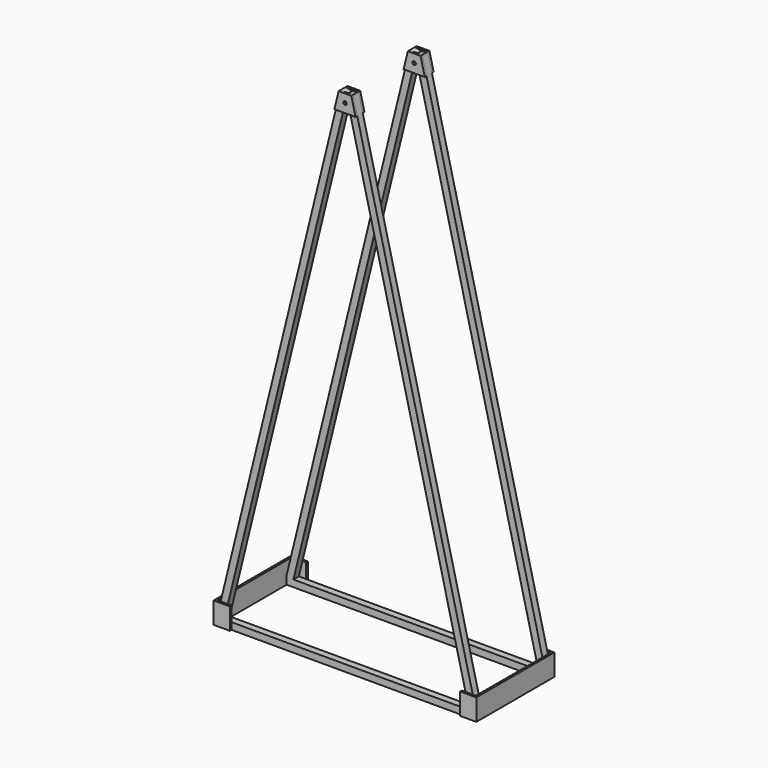
from build123d import *

# Parameters (mm, degrees)
F0_W      = 304.8
F0_H      = 8
F1_DEPTH  = 8
F2_DEPTH  = 25.4
F3_W      = 19.05
F3_H      = 25.4
F4_DEPTH  = 2.5
F6_W      = 8
F6_H      = 8
F7_DEPTH  = 25
F9_DEPTH  = 8
F12_DEPTH = 609.6
F13_DEPTH = 609.6
F15_DEPTH = 2.5
F17_DEPTH = 2.5
F18_R     = 2
F19_DEPTH = 13


with BuildPart() as f1:
    # F0 (on Top) → F1 (new body)
    with BuildSketch(Plane.XY):
        with Locations((0, 51)):
            Rectangle(F0_W, F0_H)
    extrude(amount=F1_DEPTH)



with BuildPart() as f1b:
    # F0 (on Top) → F1, piece 2 (new body)
    with BuildSketch(Plane.XY):
        with Locations((0, -51)):
            Rectangle(F0_W, F0_H)
    extrude(amount=F1_DEPTH)


with BuildPart() as f1_1:
    add(f1.part)

    add(f1b.part)  # F2 merges F1b
    # F0 (on Top) → F2 (join)
    with BuildSketch(Plane.XY):
        Polygon((-152.4, 47), (-152.4, 55), (-154.9, 55), (-154.9, -55), (-152.4, -55), (-152.4, -47), align=None)
        Polygon((154.9, 55), (152.4, 55), (152.4, 47), (152.4, -47), (152.4, -55), (154.9, -55), align=None)
    extrude(amount=F2_DEPTH)

    # F3 (on face) → F4 (join)
    with BuildSketch(Plane.XZ.offset(55)):
        with Locations((-145.375, 12.7)):
            Rectangle(F3_W, F3_H)
        with Locations((145.375, 12.7)):
            Rectangle(F3_W, F3_H)
    extrude(amount=F4_DEPTH)

    # F5: F1 across plane


with BuildPart() as f1_2:
    add(f1_1.part)
    add(f1_1.part.mirror(Plane.XZ))

    # F6 (on face) → F7 (join)
    with BuildSketch(Plane.XY.offset(8)):
        with Locations((148.4, -51)):
            Rectangle(F6_W, F6_H)
    extrude(amount=F7_DEPTH)

    # F8 (on face) → F9 (cut)
    with BuildSketch(Plane(origin=(0, -47, 0), x_dir=(-1, 0, 0), z_dir=(0, 1, 0))):
        Polygon((-152.4, 9.9575875458), (-144.4, 8), (-144.4, 33), (-152.4, 33), (-152.4, 25.4), align=None)
    extrude(amount=-F9_DEPTH, mode=Mode.SUBTRACT)

    # F10: F1 across plane


with BuildPart() as f1_3:
    add(f1_2.part)
    add(f1_2.part.mirror(Plane.XZ))

    # F11: F1 across plane


with BuildPart() as f1_4:
    add(f1_3.part)
    add(f1_3.part.mirror(Plane.YZ))

    # F12 (add): faces of the model
    f12_faces = [f1_4.faces().sort_by_distance(p)[0] for p in [
        (148.4, 51, 8.9787937729),
        (148.4, -51, 8.9787937729),
    ]]
    extrude(f12_faces, amount=F12_DEPTH)

    # F13 (add): faces of the model
    f13_faces = [f1_4.faces().sort_by_distance(p)[0] for p in [
        (-148.4, 51, 8.9787937729),
        (-148.4, -51, 8.9787937729),
    ]]
    extrude(f13_faces, amount=F13_DEPTH)

    # F14 (on face) → F15 (join)
    with BuildSketch(Plane(origin=(0, 55, 0), x_dir=(-1, 0, 0), z_dir=(0, 1, 0))):
        Polygon((7.506680038, 602.087713304), (-7.506680038, 602.087713304), (-12.5, 581.6816988801), (12.5, 581.6816988801), align=None)
    extrude(amount=F15_DEPTH)

    # F16 (on face) → F17 (join)
    with BuildSketch(Plane.XZ.offset(-47)):
        Polygon((7.506680038, 602.087713304), (-7.506680038, 602.087713304), (-12.5, 581.6816988801), (12.5, 581.6816988801), align=None)
    extrude(amount=F17_DEPTH)

    # F18 (on face) → F19 (cut, through all)
    with BuildSketch(Plane(origin=(0, 57.5, 0), x_dir=(-1, 0, 0), z_dir=(0, 1, 0))):
        with Locations((0, 592.087713304)):
            Circle(F18_R)
    extrude(amount=-F19_DEPTH, mode=Mode.SUBTRACT)

    # F20: F1 across plane


with BuildPart() as f1_5:
    add(f1_4.part)
    add(f1_4.part.mirror(Plane.XZ))


solid = f1_5.part
